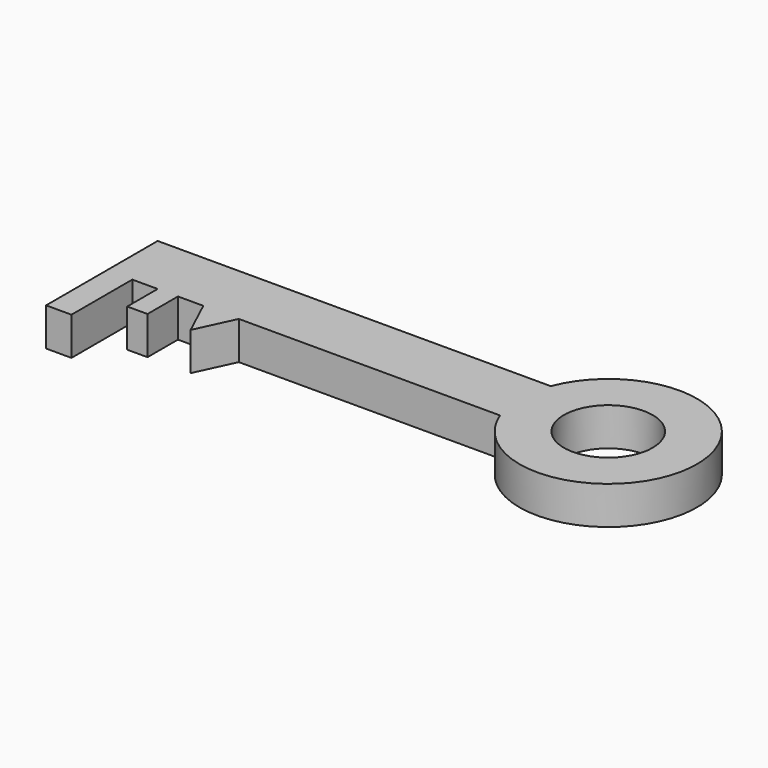
from build123d import *

# Parameters (mm, degrees)
F0_R     = 17.5
F0_W     = 8
F0_H     = 15
F1_DEPTH = 15


with BuildPart() as f1:
    # F0 (on Top) → F1 (new body)
    with BuildSketch(Plane.XY):
        with BuildLine():
            Line((37.287013, -11.645615), (-117.712987, -11.645615))
            Line((-117.712987, -11.645615), (-117.712987, -36.645615))
            Line((-117.712987, -36.645615), (-117.712987, -66.645615))
            Line((-117.712987, -66.645615), (-107.712987, -66.645615))
            Line((-107.712987, -66.645615), (-107.712987, -36.645615))
            Line((-107.712987, -36.645615), (-97.712987, -36.645615))
            Line((-97.712987, -36.645615), (-89.712987, -36.645615))
            Line((-89.712987, -36.645615), (-79.712987, -36.645615))
            Line((-79.712987, -36.645615), (-72.712987, -51.645615))
            Line((-72.712987, -51.645615), (-65.712987, -36.645615))
            Line((-65.712987, -36.645615), (37.287013, -36.645615))
            ThreePointArc((37.287013, -36.645615), (104.978755, -24.145615), (37.287013, -11.645615))
        make_face()
        with Locations((69.978755, -24.145615)):
            Circle(F0_R, mode=Mode.SUBTRACT)
        with Locations((-93.712987, -44.145615)):
            Rectangle(F0_W, F0_H)
    extrude(amount=F1_DEPTH)


solid = f1.part
